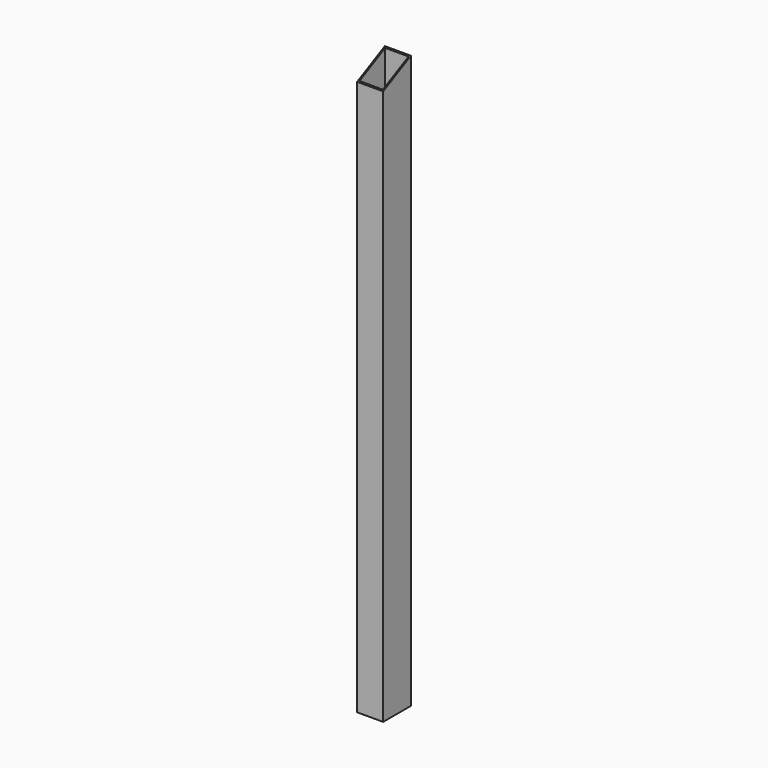
from build123d import *

# Parameters (mm, degrees)
F1_DEPTH = 60
F2_W     = 54
F2_H     = 74
F3_DEPTH = 1320.001


with BuildPart() as f1:
    # F0 (on Right) → F1 (new body)
    with BuildSketch(Plane.YZ):
        Polygon((0, 1280), (0, 0), (80, 0), (80, 1320), align=None)
    extrude(amount=F1_DEPTH)

    # F2 (on face) → F3 (cut, through all)
    with BuildSketch(Plane(origin=(0, 0, 0), x_dir=(1, 0, 0), z_dir=(0, 0, -1))):
        with Locations((30, -40)):
            Rectangle(F2_W, F2_H)
    extrude(amount=-F3_DEPTH, mode=Mode.SUBTRACT)


solid = f1.part
